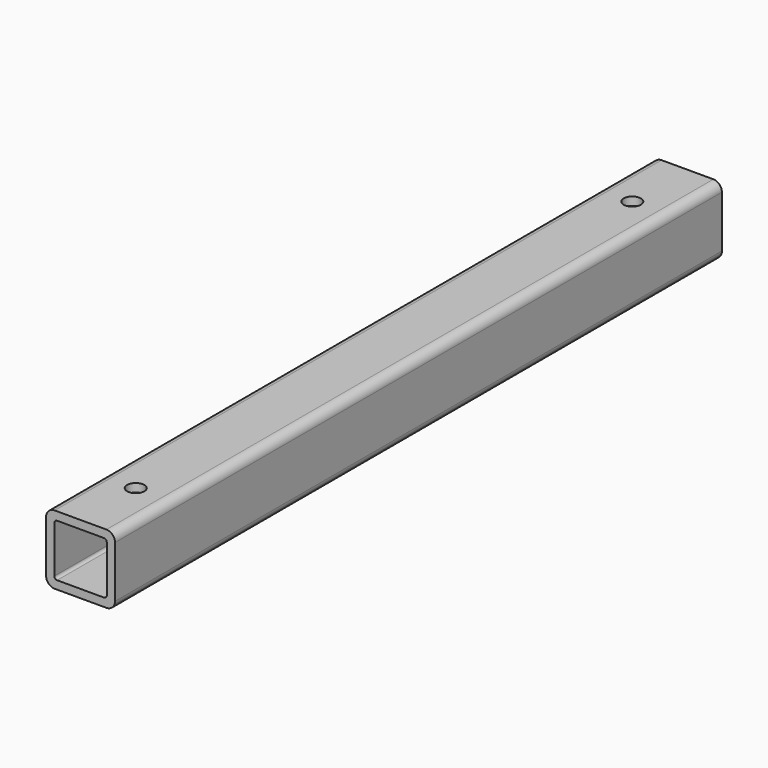
from build123d import *

# Parameters (mm, degrees)
F1_DEPTH = 279.4
F2_R     = 3.175
F3_DEPTH = 25.4


with BuildPart() as f1:
    # F0 (on Front) → F1 (new body)
    with BuildSketch(Plane.XZ):
        with BuildLine():
            Line((9.525, 0), (-9.525, 0))
            ThreePointArc((-9.525, 0), (-11.770064, -0.929936), (-12.7, -3.175))
            Line((-12.7, -3.175), (-12.7, -22.225))
            ThreePointArc((-12.7, -22.225), (-11.770064, -24.470064), (-9.525, -25.4))
            Line((-9.525, -25.4), (9.525, -25.4))
            ThreePointArc((9.525, -25.4), (11.770064, -24.470064), (12.7, -22.225))
            Line((12.7, -22.225), (12.7, -3.175))
            ThreePointArc((12.7, -3.175), (11.770064, -0.929936), (9.525, 0))
        make_face()
        with BuildLine():
            ThreePointArc((-9.652, -4.064), (-9.35442, -3.34558), (-8.636, -3.048))
            Line((-8.636, -3.048), (8.636, -3.048))
            ThreePointArc((8.636, -3.048), (9.35442, -3.34558), (9.652, -4.064))
            Line((9.652, -4.064), (9.652, -21.336))
            ThreePointArc((9.652, -21.336), (9.35442, -22.05442), (8.636, -22.352))
            Line((8.636, -22.352), (-8.636, -22.352))
            ThreePointArc((-8.636, -22.352), (-9.35442, -22.05442), (-9.652, -21.336))
            Line((-9.652, -21.336), (-9.652, -4.064))
        make_face(mode=Mode.SUBTRACT)
    extrude(amount=F1_DEPTH)

    # F2 (on Top) → F3 (cut)
    with BuildSketch(Plane.XY):
        with Locations((0, -25.4)):
            Circle(F2_R)
        with Locations((0, -254)):
            Circle(F2_R)
    extrude(amount=-F3_DEPTH, mode=Mode.SUBTRACT)


solid = f1.part
